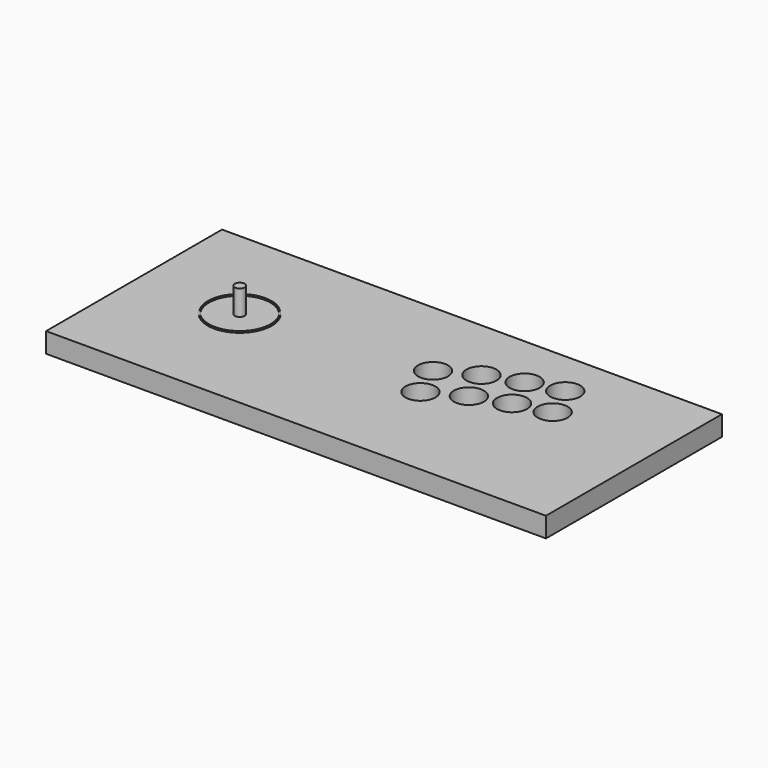
from build123d import *

# Parameters (mm, degrees)
F0_R     = 15
F0_R_2   = 32
F0_R_3   = 30.75
F0_R_4   = 5
F1_DEPTH = 20
F2_DEPTH = 21
F3_DEPTH = 45


with BuildPart() as f1:
    # F0 (on Top) → F1 (new body)
    with BuildSketch(Plane.XY):
        Polygon((284.4715710252, 88.1958252929), (-215.5284289748, 88.1958252929), (-215.5284289748, -14.6917872616), (-215.5284289748, -112.5681422158), (-215.5284289748, -131.8041747071), (284.4715710252, -131.8041747071), (284.4715710252, -112.5681422158), align=None)
        with Locations((77.0776277755, -29.4956769794)):
            Circle(F0_R, mode=Mode.SUBTRACT)
        with Locations((-115.5284289748, -14.6917872616)):
            Circle(F0_R_2, mode=Mode.SUBTRACT)
        with Locations((62.4715710252, 4.5043230206)):
            Circle(F0_R, mode=Mode.SUBTRACT)
        with Locations((111.0776277755, -11.4509115215)):
            Circle(F0_R, mode=Mode.SUBTRACT)
        with Locations((145.0776277755, -0.0014326224)):
            Circle(F0_R, mode=Mode.SUBTRACT)
        with Locations((96.4715710252, 22.5490884785)):
            Circle(F0_R, mode=Mode.SUBTRACT)
        with Locations((179.0776277755, 8.3279051832)):
            Circle(F0_R, mode=Mode.SUBTRACT)
        with Locations((130.4715710252, 33.9985673776)):
            Circle(F0_R, mode=Mode.SUBTRACT)
        with Locations((164.4715710252, 42.3279051832)):
            Circle(F0_R, mode=Mode.SUBTRACT)
        with Locations((-115.5284289748, -14.6917872616)):
            Circle(F0_R_2)
        with Locations((-115.5284289748, -14.6917872616)):
            Circle(F0_R_3, mode=Mode.SUBTRACT)
        with Locations((-115.5284289748, -14.6917872616)):
            Circle(F0_R_3)
        with Locations((-115.5284289748, -14.6917872616)):
            Circle(F0_R_4, mode=Mode.SUBTRACT)
        with Locations((-115.5284289748, -14.6917872616)):
            Circle(F0_R_4)
    extrude(amount=F1_DEPTH)

    # F0 (on Top) → F2 (join)
    with BuildSketch(Plane.XY):
        with Locations((-115.5284289748, -14.6917872616)):
            Circle(F0_R_2)
        with Locations((-115.5284289748, -14.6917872616)):
            Circle(F0_R_3, mode=Mode.SUBTRACT)
    extrude(amount=F2_DEPTH)

    # F0 (on Top) → F3 (join)
    with BuildSketch(Plane.XY):
        with Locations((-115.5284289748, -14.6917872616)):
            Circle(F0_R_4)
    extrude(amount=F3_DEPTH)


solid = f1.part
